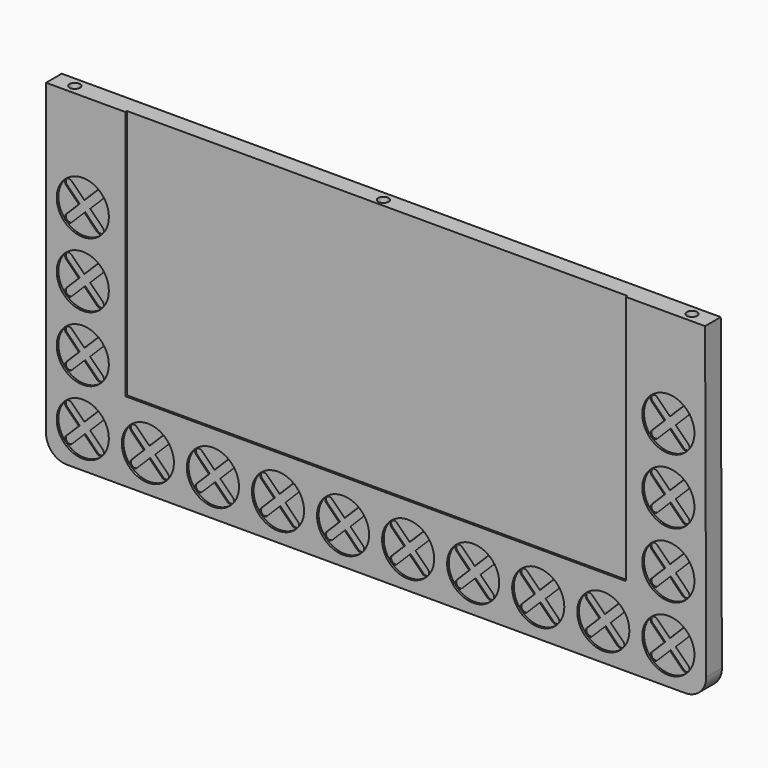
from build123d import *

# Parameters (mm, degrees)
F1_DEPTH  = 11.938
F2_R      = 3.175
F3_DEPTH  = 13.208
F5_D      = 2.2606
F5_DEPTH  = 9.525
F5_TIP    = 0.6791527577
F7_DEPTH  = 1.27
F8_R      = 15.875
F9_DEPTH  = 1.27
F11_DEPTH = 1.905


with BuildPart() as f1:
    # F0 (on Front) → F1 (new body)
    with BuildSketch(Plane.XZ):
        with BuildLine():
            Line((-280.0086919621, 110.288979826), (-280.0086919621, -77.671020174))
            ThreePointArc((-280.0086919621, -77.671020174), (-276.2889480831, -86.6512762951), (-267.3086919621, -90.371020174))
            Line((-267.3086919621, -90.371020174), (109.3264380316, -90.371020174))
            ThreePointArc((109.3264380316, -90.371020174), (118.3066941527, -86.6512762951), (122.0264380316, -77.671020174))
            Line((122.0264380316, -77.671020174), (121.3113080379, 110.288979826))
            Line((121.3113080379, 110.288979826), (-280.0086919621, 110.288979826))
        make_face()
    extrude(amount=F1_DEPTH)

    # F2 (on face) → F3 (cut)
    with BuildSketch(Plane.XY.offset(110.288979826)):
        with Locations((-267.3086919621, -5.969)):
            Circle(F2_R)
        with Locations((-79.3486919621, -5.969)):
            Circle(F2_R)
        with Locations((108.6113080379, -5.969)):
            Circle(F2_R)
    extrude(amount=-F3_DEPTH, mode=Mode.SUBTRACT)

    # F5
    with Locations(Plane(origin=(0, 0, 0), x_dir=(-1, 0, 0), z_dir=(0, 1, 0))):
        with Locations((-108.6740315901, 93.778979826), (79.2859684099, 93.778979826), (267.2459684099, 93.778979826), (267.2459684099, -73.8611393218), (79.2859684099, -73.8611393218), (-108.6740315901, -73.8611393218)):
            Hole(F5_D / 2, depth=F5_DEPTH)
            with Locations((0, 0, -(F5_DEPTH + F5_TIP / 2))):  # 118° drill point
                Cone(0, F5_D / 2, F5_TIP, mode=Mode.SUBTRACT)

    # F6 (on face) → F7 (cut)
    with BuildSketch(Plane.XZ.offset(11.938)):
        with BuildLine():
            Line((73.0513080379, 110.288979826), (-231.7486919621, 110.288979826))
            Line((-231.7486919621, 110.288979826), (-231.7486919621, -41.714145174))
            ThreePointArc((-231.7486919621, -41.714145174), (-231.6324499659, -41.9947781778), (-231.3518169621, -42.111020174))
            Line((-231.3518169621, -42.111020174), (72.6544330379, -42.111020174))
            ThreePointArc((72.6544330379, -42.111020174), (72.9350660417, -41.9947781778), (73.0513080379, -41.714145174))
            Line((73.0513080379, -41.714145174), (73.0513080379, 110.288979826))
        make_face()
    extrude(amount=-F7_DEPTH, mode=Mode.SUBTRACT)

    # F8 (on face) → F9 (cut)
    with BuildSketch(Plane.XZ.offset(11.938)):
        with Locations((-257.6567034702, -68.146020174)):
            Circle(F8_R)
        with Locations((-218.0327034702, -68.146020174)):
            Circle(F8_R)
        with Locations((-178.4087034702, -68.146020174)):
            Circle(F8_R)
        with Locations((-138.7847034702, -68.146020174)):
            Circle(F8_R)
        with Locations((-99.1607034702, -68.146020174)):
            Circle(F8_R)
        with Locations((-59.5367034702, -68.146020174)):
            Circle(F8_R)
        with Locations((-19.9127034702, -68.146020174)):
            Circle(F8_R)
        with Locations((19.7112965298, -68.146020174)):
            Circle(F8_R)
        with Locations((59.3352965298, -68.146020174)):
            Circle(F8_R)
        with Locations((98.9592965298, -68.146020174)):
            Circle(F8_R)
        with Locations((-257.6567034702, -28.522020174)):
            Circle(F8_R)
        with Locations((98.9592965298, -28.522020174)):
            Circle(F8_R)
        with Locations((-257.6567034702, 11.101979826)):
            Circle(F8_R)
        with Locations((98.9592965298, 11.101979826)):
            Circle(F8_R)
        with Locations((-257.6567034702, 50.725979826)):
            Circle(F8_R)
        with Locations((98.9592965298, 50.725979826)):
            Circle(F8_R)
    extrude(amount=-F9_DEPTH, mode=Mode.SUBTRACT)

    # F10 (on face) → F11 (cut)
    with BuildSketch(Plane.XZ.offset(11.938)):
        with BuildLine():
            Line((-257.7011637542, -71.5152795055), (-249.9781434901, -79.2382997696))
            ThreePointArc((-249.9781434901, -79.2382997696), (-246.6105474447, -79.3730036114), (-246.4758436029, -76.005407566))
            Line((-246.4758436029, -76.005407566), (-254.198863867, -68.2823873018))
            Line((-254.198863867, -68.2823873018), (-246.4758436029, -60.5593670377))
            ThreePointArc((-246.4758436029, -60.5593670377), (-246.4758436029, -57.0570671505), (-249.97814349, -57.0570671505))
            Line((-249.97814349, -57.0570671505), (-257.7011637546, -64.7800874151))
            Line((-257.7011637546, -64.7800874151), (-265.4241840188, -57.057067151))
            ThreePointArc((-265.4241840188, -57.057067151), (-268.7917800636, -57.057067151), (-268.7917800636, -60.4246631959))
            Line((-268.7917800636, -60.4246631959), (-261.0687597995, -68.14768346))
            Line((-261.0687597995, -68.14768346), (-268.7917800636, -75.8707037241))
            ThreePointArc((-268.7917800636, -75.8707037241), (-268.7917800637, -79.2382997695), (-265.4241840183, -79.2382997696))
            Line((-265.4241840183, -79.2382997696), (-257.7011637542, -71.5152795055))
        make_face()
        with BuildLine():
            Line((-257.7011637546, -25.1560874151), (-265.4241840188, -17.433067151))
            ThreePointArc((-265.4241840188, -17.433067151), (-268.7917800636, -17.433067151), (-268.7917800636, -20.8006631959))
            Line((-268.7917800636, -20.8006631959), (-261.0687597995, -28.52368346))
            Line((-261.0687597995, -28.52368346), (-268.7917800636, -36.2467037241))
            ThreePointArc((-268.7917800636, -36.2467037241), (-268.7917800637, -39.6142997695), (-265.4241840183, -39.6142997696))
            Line((-265.4241840183, -39.6142997696), (-257.7011637542, -31.8912795055))
            Line((-257.7011637542, -31.8912795055), (-249.9781434901, -39.6142997696))
            ThreePointArc((-249.9781434901, -39.6142997696), (-246.6105474447, -39.7490036114), (-246.4758436029, -36.381407566))
            Line((-246.4758436029, -36.381407566), (-254.198863867, -28.6583873018))
            Line((-254.198863867, -28.6583873018), (-246.4758436029, -20.9353670377))
            ThreePointArc((-246.4758436029, -20.9353670377), (-246.4758436029, -17.4330671505), (-249.97814349, -17.4330671505))
            Line((-249.97814349, -17.4330671505), (-257.7011637546, -25.1560874151))
        make_face()
        with BuildLine():
            Line((-257.7011637546, 14.4679125849), (-265.4241840188, 22.190932849))
            ThreePointArc((-265.4241840188, 22.190932849), (-268.7917800636, 22.190932849), (-268.7917800636, 18.8233368041))
            Line((-268.7917800636, 18.8233368041), (-261.0687597995, 11.10031654))
            Line((-261.0687597995, 11.10031654), (-268.7917800636, 3.3772962759))
            ThreePointArc((-268.7917800636, 3.3772962759), (-268.7917800637, 0.0097002305), (-265.4241840183, 0.0097002304))
            Line((-265.4241840183, 0.0097002304), (-257.7011637542, 7.7327204945))
            Line((-257.7011637542, 7.7327204945), (-249.9781434901, 0.0097002304))
            ThreePointArc((-249.9781434901, 0.0097002304), (-246.6105474447, -0.1250036114), (-246.4758436029, 3.242592434))
            Line((-246.4758436029, 3.242592434), (-254.198863867, 10.9656126982))
            Line((-254.198863867, 10.9656126982), (-246.4758436029, 18.6886329623))
            ThreePointArc((-246.4758436029, 18.6886329623), (-246.4758436029, 22.1909328495), (-249.97814349, 22.1909328495))
            Line((-249.97814349, 22.1909328495), (-257.7011637546, 14.4679125849))
        make_face()
        with BuildLine():
            Line((-257.7011637546, 54.0919125849), (-265.4241840188, 61.814932849))
            ThreePointArc((-265.4241840188, 61.814932849), (-268.7917800636, 61.814932849), (-268.7917800636, 58.4473368041))
            Line((-268.7917800636, 58.4473368041), (-261.0687597995, 50.72431654))
            Line((-261.0687597995, 50.72431654), (-268.7917800636, 43.0012962759))
            ThreePointArc((-268.7917800636, 43.0012962759), (-268.7917800637, 39.6337002305), (-265.4241840183, 39.6337002304))
            Line((-265.4241840183, 39.6337002304), (-257.7011637542, 47.3567204945))
            Line((-257.7011637542, 47.3567204945), (-249.9781434901, 39.6337002304))
            ThreePointArc((-249.9781434901, 39.6337002304), (-246.6105474447, 39.4989963886), (-246.4758436029, 42.866592434))
            Line((-246.4758436029, 42.866592434), (-254.198863867, 50.5896126982))
            Line((-254.198863867, 50.5896126982), (-246.4758436029, 58.3126329623))
            ThreePointArc((-246.4758436029, 58.3126329623), (-246.4758436029, 61.8149328495), (-249.97814349, 61.8149328495))
            Line((-249.97814349, 61.8149328495), (-257.7011637546, 54.0919125849))
        make_face()
        with BuildLine():
            Line((-221.4447597995, -68.14768346), (-229.1677800636, -75.8707037241))
            ThreePointArc((-229.1677800636, -75.8707037241), (-229.1677800637, -79.2382997695), (-225.8001840183, -79.2382997696))
            Line((-225.8001840183, -79.2382997696), (-218.0771637542, -71.5152795055))
            Line((-218.0771637542, -71.5152795055), (-210.3541434901, -79.2382997696))
            ThreePointArc((-210.3541434901, -79.2382997696), (-206.9865474447, -79.3730036114), (-206.8518436029, -76.005407566))
            Line((-206.8518436029, -76.005407566), (-214.574863867, -68.2823873018))
            Line((-214.574863867, -68.2823873018), (-206.8518436029, -60.5593670377))
            ThreePointArc((-206.8518436029, -60.5593670377), (-206.8518436029, -57.0570671505), (-210.35414349, -57.0570671505))
            Line((-210.35414349, -57.0570671505), (-218.0771637546, -64.7800874151))
            Line((-218.0771637546, -64.7800874151), (-225.8001840188, -57.057067151))
            ThreePointArc((-225.8001840188, -57.057067151), (-229.1677800636, -57.057067151), (-229.1677800636, -60.4246631959))
            Line((-229.1677800636, -60.4246631959), (-221.4447597995, -68.14768346))
        make_face()
        with BuildLine():
            Line((-181.8207597995, -68.14768346), (-189.5437800636, -75.8707037241))
            ThreePointArc((-189.5437800636, -75.8707037241), (-189.5437800637, -79.2382997695), (-186.1761840183, -79.2382997696))
            Line((-186.1761840183, -79.2382997696), (-178.4531637542, -71.5152795055))
            Line((-178.4531637542, -71.5152795055), (-170.7301434901, -79.2382997696))
            ThreePointArc((-170.7301434901, -79.2382997696), (-167.3625474447, -79.3730036114), (-167.2278436029, -76.005407566))
            Line((-167.2278436029, -76.005407566), (-174.950863867, -68.2823873018))
            Line((-174.950863867, -68.2823873018), (-167.2278436029, -60.5593670377))
            ThreePointArc((-167.2278436029, -60.5593670377), (-167.2278436029, -57.0570671505), (-170.73014349, -57.0570671505))
            Line((-170.73014349, -57.0570671505), (-178.4531637546, -64.7800874151))
            Line((-178.4531637546, -64.7800874151), (-186.1761840188, -57.057067151))
            ThreePointArc((-186.1761840188, -57.057067151), (-189.5437800636, -57.057067151), (-189.5437800636, -60.4246631959))
            Line((-189.5437800636, -60.4246631959), (-181.8207597995, -68.14768346))
        make_face()
        with BuildLine():
            Line((-142.1967597995, -68.14768346), (-149.9197800636, -75.8707037241))
            ThreePointArc((-149.9197800636, -75.8707037241), (-149.9197800637, -79.2382997695), (-146.5521840183, -79.2382997696))
            Line((-146.5521840183, -79.2382997696), (-138.8291637542, -71.5152795055))
            Line((-138.8291637542, -71.5152795055), (-131.1061434901, -79.2382997696))
            ThreePointArc((-131.1061434901, -79.2382997696), (-127.7385474447, -79.3730036114), (-127.6038436029, -76.005407566))
            Line((-127.6038436029, -76.005407566), (-135.326863867, -68.2823873018))
            Line((-135.326863867, -68.2823873018), (-127.6038436029, -60.5593670377))
            ThreePointArc((-127.6038436029, -60.5593670377), (-127.6038436029, -57.0570671505), (-131.10614349, -57.0570671505))
            Line((-131.10614349, -57.0570671505), (-138.8291637546, -64.7800874151))
            Line((-138.8291637546, -64.7800874151), (-146.5521840188, -57.057067151))
            ThreePointArc((-146.5521840188, -57.057067151), (-149.9197800636, -57.057067151), (-149.9197800636, -60.4246631959))
            Line((-149.9197800636, -60.4246631959), (-142.1967597995, -68.14768346))
        make_face()
        with BuildLine():
            Line((-102.5727597995, -68.14768346), (-110.2957800636, -75.8707037241))
            ThreePointArc((-110.2957800636, -75.8707037241), (-110.2957800637, -79.2382997695), (-106.9281840183, -79.2382997696))
            Line((-106.9281840183, -79.2382997696), (-99.2051637542, -71.5152795055))
            Line((-99.2051637542, -71.5152795055), (-91.4821434901, -79.2382997696))
            ThreePointArc((-91.4821434901, -79.2382997696), (-88.1145474447, -79.3730036114), (-87.9798436029, -76.005407566))
            Line((-87.9798436029, -76.005407566), (-95.702863867, -68.2823873018))
            Line((-95.702863867, -68.2823873018), (-87.9798436029, -60.5593670377))
            ThreePointArc((-87.9798436029, -60.5593670377), (-87.9798436029, -57.0570671505), (-91.48214349, -57.0570671505))
            Line((-91.48214349, -57.0570671505), (-99.2051637546, -64.7800874151))
            Line((-99.2051637546, -64.7800874151), (-106.9281840188, -57.057067151))
            ThreePointArc((-106.9281840188, -57.057067151), (-110.2957800636, -57.057067151), (-110.2957800636, -60.4246631959))
            Line((-110.2957800636, -60.4246631959), (-102.5727597995, -68.14768346))
        make_face()
        with BuildLine():
            Line((-62.9487597995, -68.14768346), (-70.6717800636, -75.8707037241))
            ThreePointArc((-70.6717800636, -75.8707037241), (-70.6717800637, -79.2382997695), (-67.3041840183, -79.2382997696))
            Line((-67.3041840183, -79.2382997696), (-59.5811637542, -71.5152795055))
            Line((-59.5811637542, -71.5152795055), (-51.8581434901, -79.2382997696))
            ThreePointArc((-51.8581434901, -79.2382997696), (-48.4905474447, -79.3730036114), (-48.3558436029, -76.005407566))
            Line((-48.3558436029, -76.005407566), (-56.078863867, -68.2823873018))
            Line((-56.078863867, -68.2823873018), (-48.3558436029, -60.5593670377))
            ThreePointArc((-48.3558436029, -60.5593670377), (-48.3558436029, -57.0570671505), (-51.85814349, -57.0570671505))
            Line((-51.85814349, -57.0570671505), (-59.5811637546, -64.7800874151))
            Line((-59.5811637546, -64.7800874151), (-67.3041840188, -57.057067151))
            ThreePointArc((-67.3041840188, -57.057067151), (-70.6717800636, -57.057067151), (-70.6717800636, -60.4246631959))
            Line((-70.6717800636, -60.4246631959), (-62.9487597995, -68.14768346))
        make_face()
        with BuildLine():
            Line((-23.3247597995, -68.14768346), (-31.0477800636, -75.8707037241))
            ThreePointArc((-31.0477800636, -75.8707037241), (-31.0477800637, -79.2382997695), (-27.6801840183, -79.2382997696))
            Line((-27.6801840183, -79.2382997696), (-19.9571637542, -71.5152795055))
            Line((-19.9571637542, -71.5152795055), (-12.2341434901, -79.2382997696))
            ThreePointArc((-12.2341434901, -79.2382997696), (-8.8665474447, -79.3730036114), (-8.7318436029, -76.005407566))
            Line((-8.7318436029, -76.005407566), (-16.454863867, -68.2823873018))
            Line((-16.454863867, -68.2823873018), (-8.7318436029, -60.5593670377))
            ThreePointArc((-8.7318436029, -60.5593670377), (-8.7318436029, -57.0570671505), (-12.23414349, -57.0570671505))
            Line((-12.23414349, -57.0570671505), (-19.9571637546, -64.7800874151))
            Line((-19.9571637546, -64.7800874151), (-27.6801840188, -57.057067151))
            ThreePointArc((-27.6801840188, -57.057067151), (-31.0477800636, -57.057067151), (-31.0477800636, -60.4246631959))
            Line((-31.0477800636, -60.4246631959), (-23.3247597995, -68.14768346))
        make_face()
        with BuildLine():
            Line((16.2992402005, -68.14768346), (8.5762199364, -75.8707037241))
            ThreePointArc((8.5762199364, -75.8707037241), (8.5762199363, -79.2382997695), (11.9438159817, -79.2382997696))
            Line((11.9438159817, -79.2382997696), (19.6668362458, -71.5152795055))
            Line((19.6668362458, -71.5152795055), (27.3898565099, -79.2382997696))
            ThreePointArc((27.3898565099, -79.2382997696), (30.7574525553, -79.3730036114), (30.8921563971, -76.005407566))
            Line((30.8921563971, -76.005407566), (23.169136133, -68.2823873018))
            Line((23.169136133, -68.2823873018), (30.8921563971, -60.5593670377))
            ThreePointArc((30.8921563971, -60.5593670377), (30.8921563971, -57.0570671505), (27.38985651, -57.0570671505))
            Line((27.38985651, -57.0570671505), (19.6668362454, -64.7800874151))
            Line((19.6668362454, -64.7800874151), (11.9438159812, -57.057067151))
            ThreePointArc((11.9438159812, -57.057067151), (8.5762199364, -57.057067151), (8.5762199364, -60.4246631959))
            Line((8.5762199364, -60.4246631959), (16.2992402005, -68.14768346))
        make_face()
        with BuildLine():
            Line((55.9232402005, -68.14768346), (48.2002199364, -75.8707037241))
            ThreePointArc((48.2002199364, -75.8707037241), (48.2002199363, -79.2382997695), (51.5678159817, -79.2382997696))
            Line((51.5678159817, -79.2382997696), (59.2908362458, -71.5152795055))
            Line((59.2908362458, -71.5152795055), (67.0138565099, -79.2382997696))
            ThreePointArc((67.0138565099, -79.2382997696), (70.3814525553, -79.3730036114), (70.5161563971, -76.005407566))
            Line((70.5161563971, -76.005407566), (62.793136133, -68.2823873018))
            Line((62.793136133, -68.2823873018), (70.5161563971, -60.5593670377))
            ThreePointArc((70.5161563971, -60.5593670377), (70.5161563971, -57.0570671505), (67.01385651, -57.0570671505))
            Line((67.01385651, -57.0570671505), (59.2908362454, -64.7800874151))
            Line((59.2908362454, -64.7800874151), (51.5678159812, -57.057067151))
            ThreePointArc((51.5678159812, -57.057067151), (48.2002199364, -57.057067151), (48.2002199364, -60.4246631959))
            Line((48.2002199364, -60.4246631959), (55.9232402005, -68.14768346))
        make_face()
        with BuildLine():
            Line((95.5472402005, -68.14768346), (87.8242199364, -75.8707037241))
            ThreePointArc((87.8242199364, -75.8707037241), (87.8242199363, -79.2382997695), (91.1918159817, -79.2382997696))
            Line((91.1918159817, -79.2382997696), (98.9148362458, -71.5152795055))
            Line((98.9148362458, -71.5152795055), (106.6378565099, -79.2382997696))
            ThreePointArc((106.6378565099, -79.2382997696), (110.0054525553, -79.3730036114), (110.1401563971, -76.005407566))
            Line((110.1401563971, -76.005407566), (102.417136133, -68.2823873018))
            Line((102.417136133, -68.2823873018), (110.1401563971, -60.5593670377))
            ThreePointArc((110.1401563971, -60.5593670377), (110.1401563971, -57.0570671505), (106.63785651, -57.0570671505))
            Line((106.63785651, -57.0570671505), (98.9148362454, -64.7800874151))
            Line((98.9148362454, -64.7800874151), (91.1918159812, -57.057067151))
            ThreePointArc((91.1918159812, -57.057067151), (87.8242199364, -57.057067151), (87.8242199364, -60.4246631959))
            Line((87.8242199364, -60.4246631959), (95.5472402005, -68.14768346))
        make_face()
        with BuildLine():
            Line((102.417136133, -28.6583873018), (110.1401563971, -20.9353670377))
            ThreePointArc((110.1401563971, -20.9353670377), (110.1401563971, -17.4330671505), (106.63785651, -17.4330671505))
            Line((106.63785651, -17.4330671505), (98.9148362454, -25.1560874151))
            Line((98.9148362454, -25.1560874151), (91.1918159812, -17.433067151))
            ThreePointArc((91.1918159812, -17.433067151), (87.8242199364, -17.433067151), (87.8242199364, -20.8006631959))
            Line((87.8242199364, -20.8006631959), (95.5472402005, -28.52368346))
            Line((95.5472402005, -28.52368346), (87.8242199364, -36.2467037241))
            ThreePointArc((87.8242199364, -36.2467037241), (87.8242199363, -39.6142997695), (91.1918159817, -39.6142997696))
            Line((91.1918159817, -39.6142997696), (98.9148362458, -31.8912795055))
            Line((98.9148362458, -31.8912795055), (106.6378565099, -39.6142997696))
            ThreePointArc((106.6378565099, -39.6142997696), (110.0054525553, -39.7490036114), (110.1401563971, -36.381407566))
            Line((110.1401563971, -36.381407566), (102.417136133, -28.6583873018))
        make_face()
        with BuildLine():
            Line((102.417136133, 10.9656126982), (110.1401563971, 18.6886329623))
            ThreePointArc((110.1401563971, 18.6886329623), (110.1401563971, 22.1909328495), (106.63785651, 22.1909328495))
            Line((106.63785651, 22.1909328495), (98.9148362454, 14.4679125849))
            Line((98.9148362454, 14.4679125849), (91.1918159812, 22.190932849))
            ThreePointArc((91.1918159812, 22.190932849), (87.8242199364, 22.190932849), (87.8242199364, 18.8233368041))
            Line((87.8242199364, 18.8233368041), (95.5472402005, 11.10031654))
            Line((95.5472402005, 11.10031654), (87.8242199364, 3.3772962759))
            ThreePointArc((87.8242199364, 3.3772962759), (87.8242199363, 0.0097002305), (91.1918159817, 0.0097002304))
            Line((91.1918159817, 0.0097002304), (98.9148362458, 7.7327204945))
            Line((98.9148362458, 7.7327204945), (106.6378565099, 0.0097002304))
            ThreePointArc((106.6378565099, 0.0097002304), (110.0054525553, -0.1250036114), (110.1401563971, 3.242592434))
            Line((110.1401563971, 3.242592434), (102.417136133, 10.9656126982))
        make_face()
        with BuildLine():
            Line((102.417136133, 50.5896126982), (110.1401563971, 58.3126329623))
            ThreePointArc((110.1401563971, 58.3126329623), (110.1401563971, 61.8149328495), (106.63785651, 61.8149328495))
            Line((106.63785651, 61.8149328495), (98.9148362454, 54.0919125849))
            Line((98.9148362454, 54.0919125849), (91.1918159812, 61.814932849))
            ThreePointArc((91.1918159812, 61.814932849), (87.8242199364, 61.814932849), (87.8242199364, 58.4473368041))
            Line((87.8242199364, 58.4473368041), (95.5472402005, 50.72431654))
            Line((95.5472402005, 50.72431654), (87.8242199364, 43.0012962759))
            ThreePointArc((87.8242199364, 43.0012962759), (87.8242199363, 39.6337002305), (91.1918159817, 39.6337002304))
            Line((91.1918159817, 39.6337002304), (98.9148362458, 47.3567204945))
            Line((98.9148362458, 47.3567204945), (106.6378565099, 39.6337002304))
            ThreePointArc((106.6378565099, 39.6337002304), (110.0054525553, 39.4989963886), (110.1401563971, 42.866592434))
            Line((110.1401563971, 42.866592434), (102.417136133, 50.5896126982))
        make_face()
    extrude(amount=-F11_DEPTH, mode=Mode.SUBTRACT)


solid = f1.part
